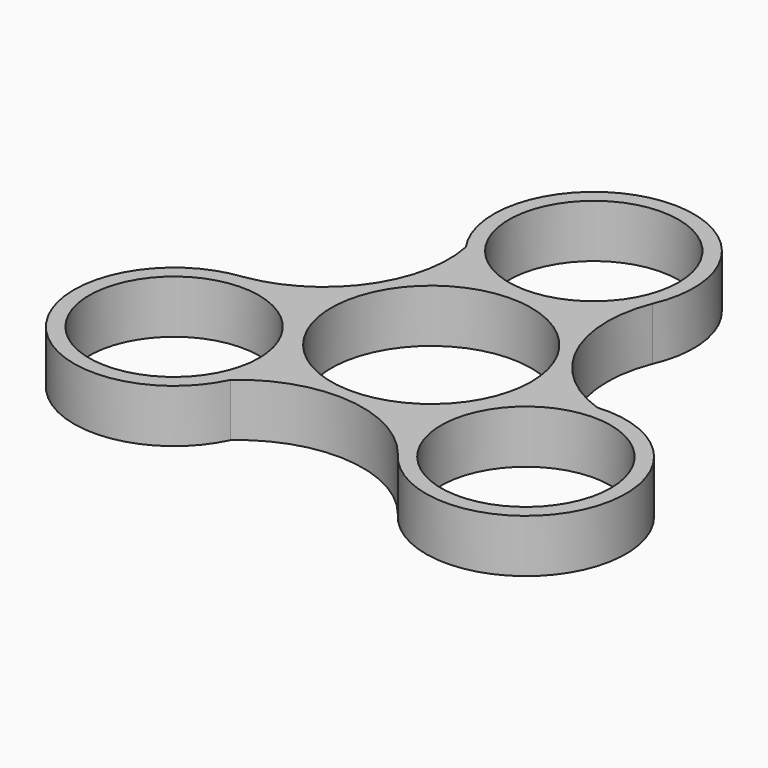
from build123d import *

# Parameters (mm, degrees)
F0_R     = 11.2
F0_R_2   = 13.2
F1_DEPTH = 7


with BuildPart() as f1:
    # F0 (on Top) → F1 (new body)
    with BuildSketch(Plane.XY):
        with BuildLine():
            ThreePointArc((22.07677, -0.24303), (12.428384, 8.445744), (12.060302, 21.424598))
            ThreePointArc((12.060302, 21.424598), (-1.253875, 39.930458), (-10.827915, 19.240559))
            ThreePointArc((-10.827915, 19.240559), (-13.528421, 6.540425), (-24.584397, -0.267771))
            ThreePointArc((-24.584397, -0.267771), (-33.953854, -21.051116), (-11.248855, -18.997529))
            ThreePointArc((-11.248855, -18.997529), (1.100036, -14.986168), (12.524095, -21.156827))
            ThreePointArc((12.524095, -21.156827), (35.207728, -18.879342), (22.07677, -0.24303))
        make_face()
        with Locations((-23.200947, -13.395073)):
            Circle(F0_R, mode=Mode.SUBTRACT)
        with Locations((23.200947, -13.395073)):
            Circle(F0_R, mode=Mode.SUBTRACT)
        Circle(F0_R_2, mode=Mode.SUBTRACT)
        with Locations((0, 26.790146)):
            Circle(F0_R, mode=Mode.SUBTRACT)
    extrude(amount=F1_DEPTH)


solid = f1.part
